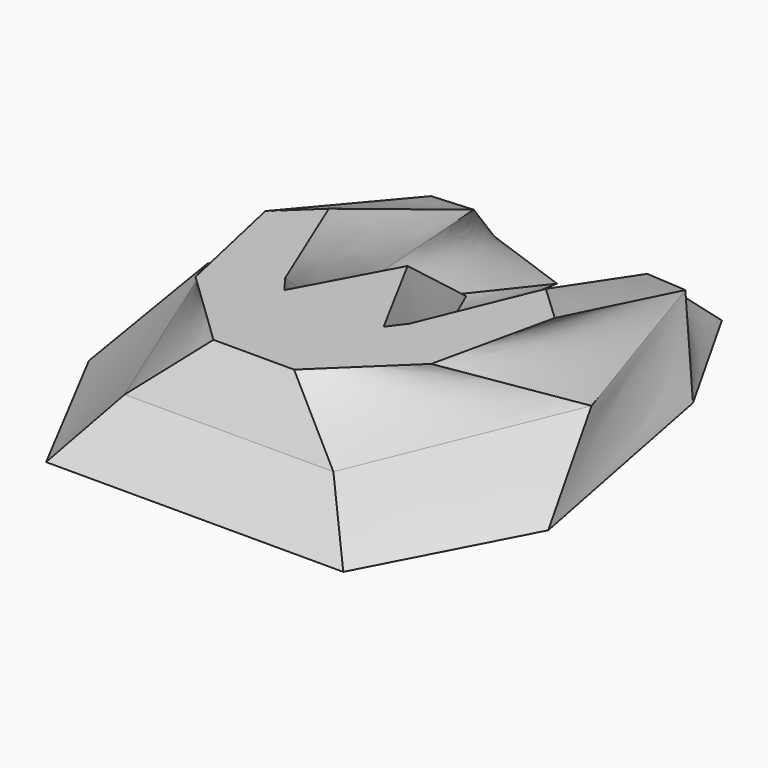
from build123d import *


with BuildPart() as f3:
    # F0 (on Top) → F3 section 0
    with BuildSketch(Plane.XY):
        Polygon((-11.5114999935, 109.4481572509), (-51.2702353299, 123.7873733044), (-82.5557932258, 68.3858543634), (-103.4128367901, -39.1582660377), (-66.9130161405, -108.8989898562), (66.9130161405, -108.8989898562), (103.4128367901, -39.1582660377), (82.5557932258, 68.3858543634), (51.2702353299, 123.7873733044), (11.5114999935, 109.4481572509), (27.8060622513, 20.8057314157), (0, -25.4708286375), (-27.8060622513, 20.8057314157), align=None)
    # F2 (on offset) → F3 section 1
    with BuildSketch(Plane.XY.offset(25.4)):
        Polygon((-25.577528252, -15.0751416393), (-32.5760915875, 6.2807598151), (-39.0913076699, 97.0284417272), (-57.247491911, 95.7249212287), (-86.5593254566, 6.2807598151), (-47.0026470721, -89.586019516), (47.0026470721, -89.586019516), (86.5593254566, 6.2807598151), (57.247491911, 95.7249212287), (39.0913076699, 97.0284417272), (32.5760915875, 6.2807598151), (25.577528252, -15.0751416393), (0, 43.9759492874), align=None)
    loft()

    # F3_face (on face) → F6 section 0
    with BuildSketch(Plane(origin=(0, -9.0342573877, 25.4), x_dir=(1, 0, 0), z_dir=(0, 0, 1))):
        Polygon((57.247491911, 104.7591786164), (39.0913076699, 106.0626991149), (32.5760915875, 15.3150172028), (25.577528252, -6.0408842515), (0, 53.0102066751), (-25.577528252, -6.0408842515), (-32.5760915875, 15.3150172028), (-39.0913076699, 106.0626991149), (-57.247491911, 104.7591786164), (-86.5593254566, 15.3150172028), (-47.0026470721, -80.5517621283), (47.0026470721, -80.5517621283), (86.5593254566, 15.3150172028), align=None)
    # F5 (on offset) → F6 section 1
    with BuildSketch(Plane.XY.offset(50.8)):
        Polygon((22.3378892988, -30.4836854339), (0, 10.9344869852), (-22.3378892988, -30.4836854339), (-27.9223658144, -23.0377204716), (-48.8641373813, 27.6879053563), (-65.1521831751, 12.3306056485), (-53.0524924397, -42.1180017292), (-18.149536103, -75.6248384714), (18.149536103, -75.6248384714), (53.0524924397, -42.1180017292), (65.1521831751, 12.3306056485), (48.8641373813, 27.6879053563), (27.9223658144, -23.0377204716), align=None)
    loft()


solid = f3.part
